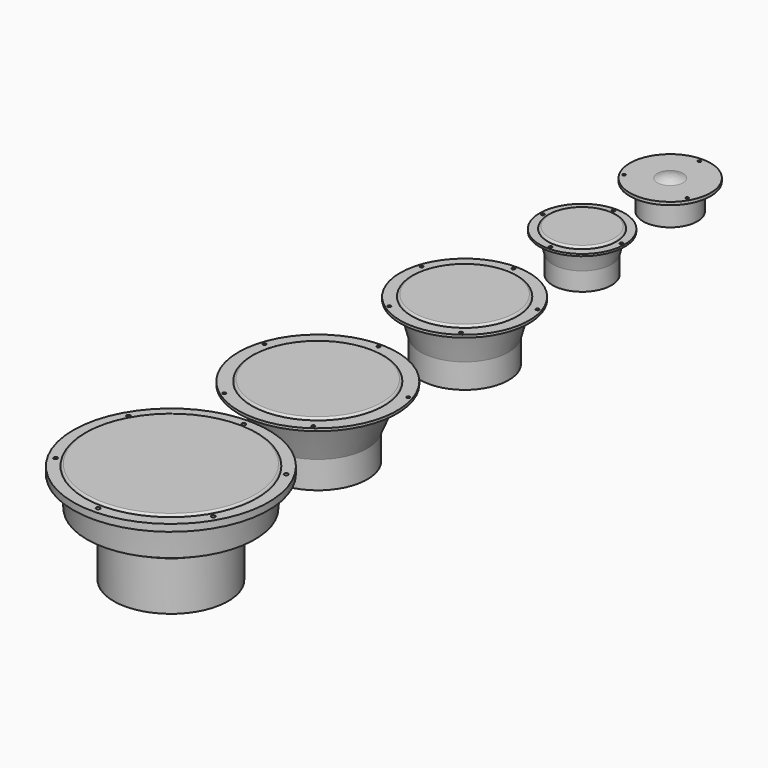
from build123d import *

# Parameters (mm, degrees)
F6_R      = 2
F7_DEPTH  = 4
F10_R     = 2.2
F11_DEPTH = 2.8
F14_R     = 2.2
F15_DEPTH = 3.5
F18_R     = 2.2
F19_DEPTH = 3.5
F22_R     = 2.65
F23_DEPTH = 9.5


with BuildPart() as f5:
    # F4 (on Front) → F5 (revolve)
    with BuildSketch(Plane.XZ):
        with BuildLine():
            ThreePointArc((0, 4), (-8.975662, 2.987269), (-17.5, 0))
            Line((-17.5, 0), (-55, 0))
            Line((-55, 0), (-55, -4))
            Line((-55, -4), (-37, -4))
            Line((-37, -4), (-37, -40))
            Line((-37, -40), (0, -40))
            Line((0, -40), (0, 0))
            Line((0, 0), (0, 4))
        make_face()
    revolve(axis=Axis((0, 0, -20), (0, 0, 1)))

    # F6 (on face) → F7 (cut, through all)
    with BuildSketch(Plane.XY):
        with Locations((0, 49.5)):
            Circle(F6_R)
        with Locations((-42.868257, -24.75)):
            Circle(F6_R)
        with Locations((42.868257, -24.75)):
            Circle(F6_R)
    extrude(amount=-F7_DEPTH, mode=Mode.SUBTRACT)


with BuildPart() as f9:
    # F8 (on offset) → F9 (revolve)
    with BuildSketch(Plane.XZ.offset(150)):
        with BuildLine():
            Line((0, -54.7), (0, 3))
            Line((0, 3), (-43.8, 3))
            ThreePointArc((-43.8, 3), (-45.92132, 2.12132), (-46.8, 0))
            Line((-46.8, 0), (-57.8, 0))
            Line((-57.8, 0), (-57.8, -2.8))
            Line((-57.8, -2.8), (-46.8, -2.8))
            Line((-46.8, -2.8), (-40, -29.7))
            Line((-40, -29.7), (-40, -54.7))
            Line((-40, -54.7), (0, -54.7))
        make_face()
    revolve(axis=Axis((0, -150, -25.85), (0, 0, 1)))

    # F10 (on face) → F11 (cut, through all)
    with BuildSketch(Plane.XY):
        with Locations((0, -96.5)):
            Circle(F10_R)
        with Locations((-53.5, -150)):
            Circle(F10_R)
        with Locations((0, -203.5)):
            Circle(F10_R)
        with Locations((53.5, -150)):
            Circle(F10_R)
    extrude(amount=-F11_DEPTH, mode=Mode.SUBTRACT)


with BuildPart() as f13:
    # F12 (on offset) → F13 (revolve)
    with BuildSketch(Plane.XZ.offset(350)):
        with BuildLine():
            Line((0, -80.6), (0, 3))
            Line((0, 3), (-69, 3))
            ThreePointArc((-69, 3), (-71.12132, 2.12132), (-72, 0))
            Line((-72, 0), (-87.8, 0))
            Line((-87.8, 0), (-87.8, -3.5))
            Line((-87.8, -3.5), (-72, -3.5))
            Line((-72, -3.5), (-60, -47.1))
            Line((-60, -47.1), (-60, -80.6))
            Line((-60, -80.6), (0, -80.6))
        make_face()
    revolve(axis=Axis((0, -350, -38.8), (0, 0, 1)))

    # F14 (on face) → F15 (cut, through all)
    with BuildSketch(Plane.XY):
        with Locations((0, -267)):
            Circle(F14_R)
        with Locations((-78.937691, -324.351589)):
            Circle(F14_R)
        with Locations((-48.786176, -417.148411)):
            Circle(F14_R)
        with Locations((48.786176, -417.148411)):
            Circle(F14_R)
        with Locations((78.937691, -324.351589)):
            Circle(F14_R)
    extrude(amount=-F15_DEPTH, mode=Mode.SUBTRACT)


with BuildPart() as f17:
    # F16 (on offset) → F17 (revolve)
    with BuildSketch(Plane.XZ.offset(600)):
        with BuildLine():
            Line((0, -95.5), (0, 3))
            Line((0, 3), (-87, 3))
            ThreePointArc((-87, 3), (-89.12132, 2.12132), (-90, 0))
            Line((-90, 0), (-108, 0))
            Line((-108, 0), (-108, -3.5))
            Line((-108, -3.5), (-90, -3.5))
            Line((-90, -3.5), (-67.5, -58.5))
            Line((-67.5, -58.5), (-67.5, -95.5))
            Line((-67.5, -95.5), (0, -95.5))
        make_face()
    revolve(axis=Axis((0, -600, -46.25), (0, 0, 1)))

    # F18 (on face) → F19 (cut, through all)
    with BuildSketch(Plane.XY):
        with Locations((0, -497)):
            Circle(F18_R)
        with Locations((-97.958821, -568.17125)):
            Circle(F18_R)
        with Locations((-60.541881, -683.32875)):
            Circle(F18_R)
        with Locations((60.541881, -683.32875)):
            Circle(F18_R)
        with Locations((97.958821, -568.17125)):
            Circle(F18_R)
    extrude(amount=-F19_DEPTH, mode=Mode.SUBTRACT)


with BuildPart() as f21:
    # F20 (on offset) → F21 (revolve)
    with BuildSketch(Plane.XZ.offset(850)):
        with BuildLine():
            Line((0, -136.5), (0, 3))
            Line((0, 3), (-114.5, 3))
            ThreePointArc((-114.5, 3), (-116.62132, 2.12132), (-117.5, 0))
            Line((-117.5, 0), (-133, 0))
            Line((-133, 0), (-133, -9.5))
            Line((-133, -9.5), (-117.5, -9.5))
            Line((-117.5, -9.5), (-114.321791, -50.701659))
            Line((-114.321791, -50.701659), (-78, -70))
            Line((-78, -70), (-78, -136.5))
            Line((-78, -136.5), (0, -136.5))
        make_face()
    revolve(axis=Axis((0, -850, -66.75), (0, 0, 1)))

    # F22 (on face) → F23 (cut, through all)
    with BuildSketch(Plane.XY):
        with Locations((0, -726)):
            Circle(F22_R)
        with Locations((-107.38715, -788)):
            Circle(F22_R)
        with Locations((-107.38715, -912)):
            Circle(F22_R)
        with Locations((0, -974)):
            Circle(F22_R)
        with Locations((107.38715, -912)):
            Circle(F22_R)
        with Locations((107.38715, -788)):
            Circle(F22_R)
    extrude(amount=-F23_DEPTH, mode=Mode.SUBTRACT)


solid = Compound([f5.part, f9.part, f13.part, f17.part, f21.part])
